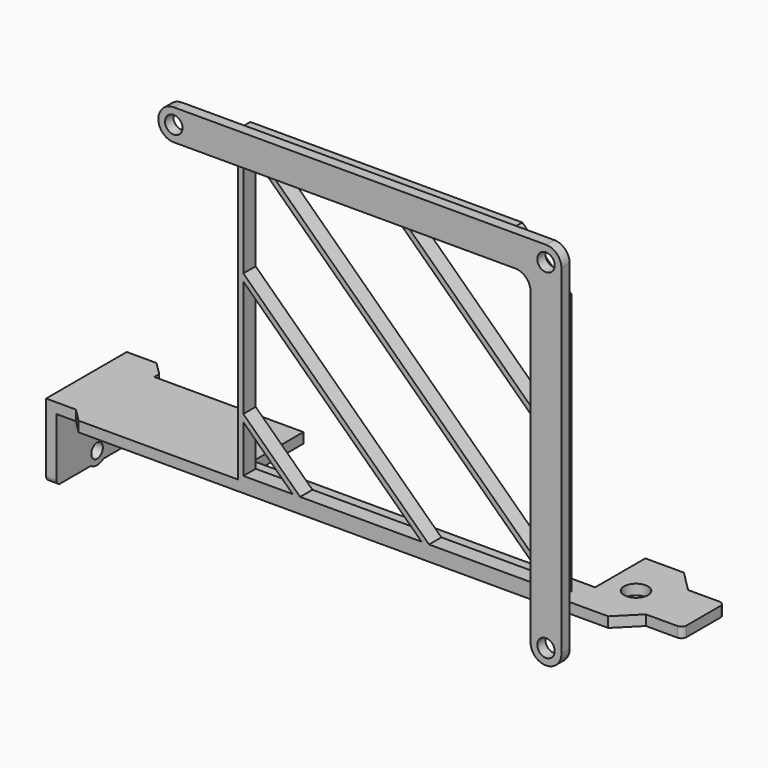
from build123d import *

# Parameters (mm, degrees)
SKETCH005_R  = 2.325
PAD002_DEPTH = 2
SKETCH006_R  = 1.4
PAD003_DEPTH = 2
SKETCH007_W  = 62.5
SKETCH007_H  = 3
PAD004_DEPTH = 60
POCKET_DEPTH = 22.201
SKETCH011_R  = 1.7
PAD006_DEPTH = 2


with BuildPart() as part:
    # Sketch005 → Pad002 (new body)
    with BuildSketch(Plane.XY):
        with BuildLine():
            Line((109.4, 18.4), (113.475, 14.325))
            Line((113.475, 14.325), (119.575, 14.325))
            ThreePointArc((120.575, 13.325), (120.282107, 14.032107), (119.575, 14.325))
            Line((120.575, 13.325), (120.575, 5.075))
            ThreePointArc((119.575, 4.075), (120.282107, 4.367893), (120.575, 5.075))
            Line((119.575, 4.075), (113.475, 4.075))
            Line((113.475, 4.075), (109.4, 0))
            Line((109.4, 0), (6.4, 0))
            Line((6.4, 0), (3.8, 2.6))
            Line((3.8, 2.6), (0, 2.6))
            Line((0, 2.6), (-2, 2.6))
            Line((-2, 2.6), (-2, 22.2))
            Line((-2, 22.2), (0, 22.2))
            Line((0, 22.2), (3.8, 22.2))
            Line((3.8, 22.2), (6.4, 19.6))
            Line((6.4, 19.6), (6.4, 18.4))
            Line((6.4, 18.4), (35.4, 18.4))
            Line((35.4, 18.4), (35.4, 6.2))
            Line((35.4, 6.2), (101.9, 6.2))
            Line((101.9, 6.2), (101.9, 18.4))
            Line((101.9, 18.4), (109.4, 18.4))
        make_face()
        with Locations((107.45, 9.2)):
            Circle(SKETCH005_R, mode=Mode.SUBTRACT)
    extrude(amount=PAD002_DEPTH)

    # Sketch006 → Pad003 (join)
    with BuildSketch(Plane(origin=(0, 0, 0), x_dir=(0, -1, 0), z_dir=(-1, 0, 0))):
        with BuildLine():
            Line((-2.6, 0), (-2.6, -11.3))
            ThreePointArc((-3.599997, -12.3), (-2.892892, -12.007106), (-2.6, -11.3))
            Line((-3.599997, -12.3), (-11, -12.3))
            ThreePointArc((-14, -12.3), (-12.5, -12.8), (-11, -12.3))
            Line((-14, -12.3), (-21.2, -12.3))
            ThreePointArc((-22.2, -11.3), (-21.907107, -12.007107), (-21.2, -12.3))
            Line((-22.2, -11.3), (-22.2, -8.3))
            Line((-22.2, -8.3), (-19.05, -8.3))
            ThreePointArc((-19.05, -8.3), (-16.85, -6.1), (-19.05, -3.9))
            Line((-19.05, -3.9), (-22.2, -3.9))
            Line((-22.2, -3.9), (-22.2, 0))
            Line((-2.6, 0), (-22.2, 0))
        make_face()
        with Locations((-12.5, -10.3)):
            Circle(SKETCH006_R, mode=Mode.SUBTRACT)
    extrude(amount=PAD003_DEPTH)

    # Sketch007 (on Face5 of Pad003) → Pad004 (join)
    with BuildSketch(Plane.XY.offset(2)):
        with Locations((68.65, 1.5)):
            Rectangle(SKETCH007_W, SKETCH007_H)
    extrude(amount=PAD004_DEPTH)

    # Sketch012 (on Face27 of Pad004) → Pocket (cut, through all)
    with BuildSketch(Plane.XZ):
        Polygon((90.3, 62), (99.9, 52.784), (99.9, 62), align=None)
        Polygon((98.9, 52.357782), (89.89769, 61), (65.252661, 61), (98.9, 28.698554), align=None)
        Polygon((39.163655, 61), (98.9, 3.653109), (98.9, 27.312337), (63.808684, 61), align=None)
        Polygon((98.178012, 2.96), (38.441667, 60.306891), (38.441667, 37.627663), (74.553816, 2.96), align=None)
        Polygon((73.109839, 2.96), (38.441667, 36.241446), (38.441667, 13.562218), (49.485644, 2.96), align=None)
        Polygon((38.441667, 12.176), (48.041667, 2.96), (38.441667, 2.96), align=None)
    extrude(amount=-POCKET_DEPTH, mode=Mode.SUBTRACT)

    # Sketch011 → Pad006 (join)
    with BuildSketch(Plane.XZ):
        with BuildLine():
            Line((95.9, -6.03), (95.9, 54.01))
            ThreePointArc((95.9, 54.01), (95.02132, 56.13132), (92.9, 57.01))
            Line((92.9, 57.01), (26.51, 57.01))
            ThreePointArc((26.51, 63.01), (23.51, 60.01), (26.51, 57.01))
            Line((26.51, 63.01), (98.9, 63.01))
            ThreePointArc((101.9, 60.01), (101.02132, 62.13132), (98.9, 63.01))
            Line((101.9, 60.01), (101.9, -6.03))
            ThreePointArc((95.9, -6.03), (98.9, -9.03), (101.9, -6.03))
        make_face()
        with Locations((98.9, -6.03)):
            Circle(SKETCH011_R, mode=Mode.SUBTRACT)
        with Locations((26.51, 60.01)):
            Circle(SKETCH011_R, mode=Mode.SUBTRACT)
        with Locations((98.9, 60.01)):
            Circle(SKETCH011_R, mode=Mode.SUBTRACT)
    extrude(amount=PAD006_DEPTH)


solid = part.part
